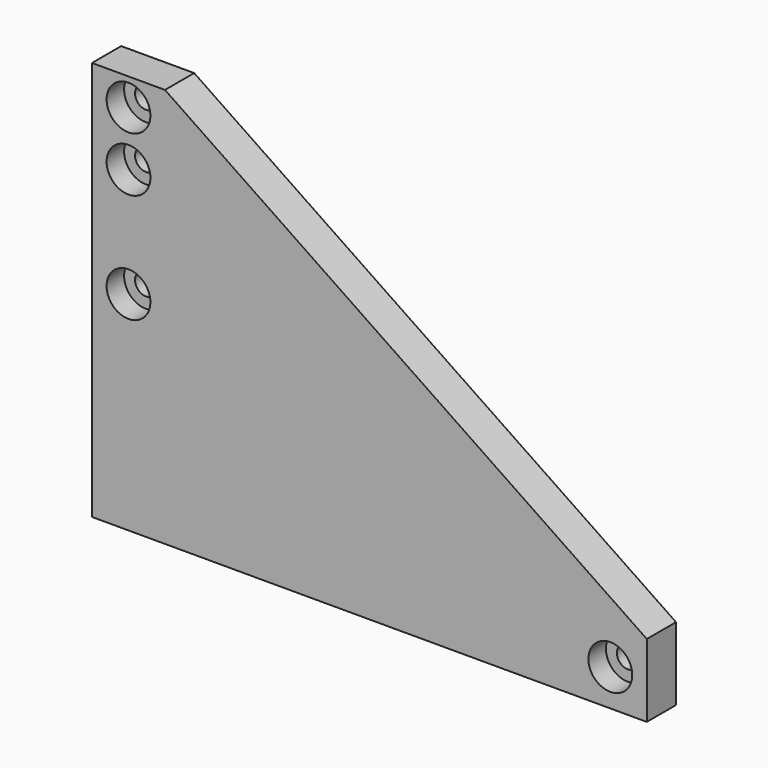
from build123d import *

# Parameters (mm, degrees)
PAD_DEPTH       = 5
SKETCH001_R     = 1.5
POCKET_DEPTH    = 5.001
SKETCH002_R     = 3
POCKET001_DEPTH = 3


with BuildPart() as part:
    # Sketch → Pad (new body)
    with BuildSketch(Plane.XZ):
        Polygon((0, 0), (0, 54.75), (10, 54.75), (76, 10), (76, 0), align=None)
    extrude(amount=PAD_DEPTH)

    # Sketch001 (on Face7 of Pad) → Pocket (cut, through all)
    with BuildSketch(Plane.XZ.offset(5)):
        with Locations((5, 51)):
            Circle(SKETCH001_R)
        with Locations((5, 43.5)):
            Circle(SKETCH001_R)
        with Locations((5, 28.5)):
            Circle(SKETCH001_R)
        with Locations((71, 5)):
            Circle(SKETCH001_R)
    extrude(amount=-POCKET_DEPTH, mode=Mode.SUBTRACT)

    # Sketch002 (on Face5 of Pocket) → Pocket001 (cut)
    with BuildSketch(Plane.XZ.offset(5)):
        with Locations((5, 51)):
            Circle(SKETCH002_R)
        with Locations((5, 43.5)):
            Circle(SKETCH002_R)
        with Locations((5, 28.5)):
            Circle(SKETCH002_R)
        with Locations((71, 5)):
            Circle(SKETCH002_R)
    extrude(amount=-POCKET001_DEPTH, mode=Mode.SUBTRACT)


solid = part.part
